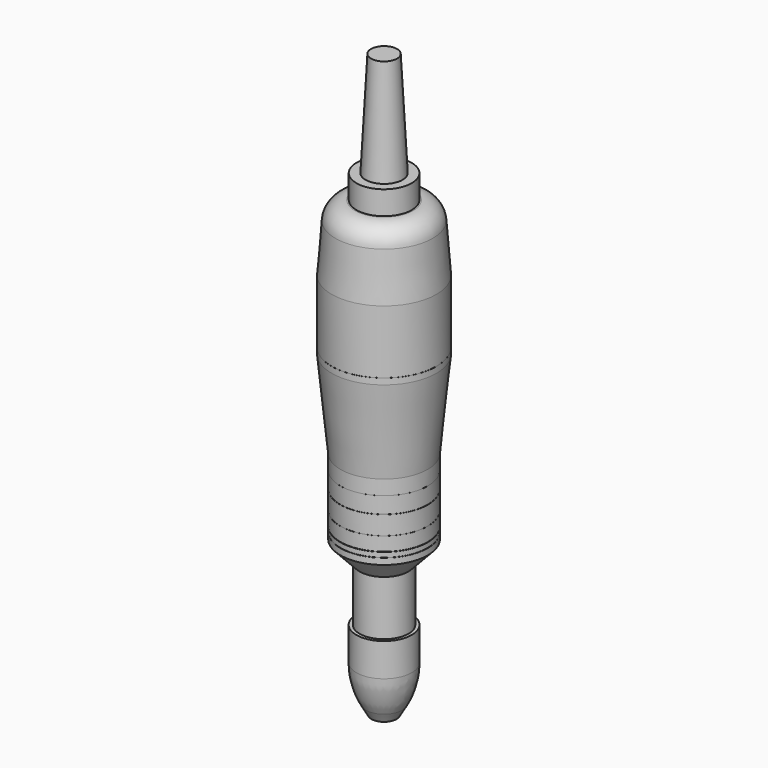
from build123d import *

# Parameters (mm, degrees)
F2_R     = 8.8916479932
F3_DEPTH = 7.62
F4_R     = 5.9660997996
F5_DEPTH = 33.782
F5_TAPER = 3
F6_R     = 23.449689891
F7_R     = 2.6928021488
F8_DEPTH = 6.1976
F9_R     = 6.2931418715


with BuildPart() as f1:
    # F0 (on Front) → F1 (revolve)
    with BuildSketch(Plane.XZ):
        Polygon((0, 8.7555544451), (0, -137.0834410191), (4.0525886504, -137.0834410191), (8.9142937213, -128.5754448824), (8.9142937213, -111.652046442), (7.8642298467, -111.652046442), (7.8642298467, -94.0267377846), (14.0556832775, -87.4014794827), (14.0556832775, -85.3735804558), (13.9548806474, -85.3735804558), (13.9548806474, -85.292108357), (14.0556832775, -85.292108357), (14.0556832775, -83.7196558714), (13.9222918078, -83.7196558714), (13.9222918078, -83.6381837726), (14.0556832775, -83.6381837726), (14.0556832775, -79.1663005948), (14.0252374113, -79.1663005948), (14.0252374113, -79.1377872229), (14.0556832775, -79.1377872229), (14.0556832775, -73.0870887637), (13.9991957694, -73.0870887637), (13.9991957694, -73.0259865522), (14.0556832775, -73.0259865522), (14.0556832775, -67.7627697587), (14.0434103087, -67.7627697587), (14.0434103087, -67.7536055446), (14.0556832775, -67.7536055446), (14.0556832775, -63.0693808198), (16.8571081012, -34.9119342864), (16.8571081012, -32.956559211), (16.7896877974, -32.956559211), (16.7896877974, -32.9383201897), (16.8571081012, -32.9383201897), (16.8571081012, -12.5459134579), (15.2300363407, 8.7555544451), align=None)
    revolve(axis=Axis((0, 0, -64.163943287), (0, 0, -1)))

    # F2 (on face) → F3 (join)
    with BuildSketch(Plane.XY.offset(8.7555544451)):
        Circle(F2_R)
    extrude(amount=F3_DEPTH)

    # F4 (on face) → F5 (join)
    with BuildSketch(Plane.XY.offset(16.3755544451)):
        Circle(F4_R)
    extrude(amount=F5_DEPTH, taper=F5_TAPER)

    # F6
    f6_edges = [f1.edges().sort_by_distance(p)[0] for p in [
        (-8.914294, 0, -128.575445),
    ]]
    fillet(f6_edges, radius=F6_R)

    # F7 (on face) → F8 (join)
    with BuildSketch(Plane(origin=(0, 0, -137.0834410191), x_dir=(1, 0, 0), z_dir=(0, 0, -1))):
        Circle(F7_R)
    extrude(amount=-F8_DEPTH)

    # F9
    f9_edges = [f1.edges().sort_by_distance(p)[0] for p in [
        (-15.230036, 0, 8.755554),
    ]]
    fillet(f9_edges, radius=F9_R)


solid = f1.part
